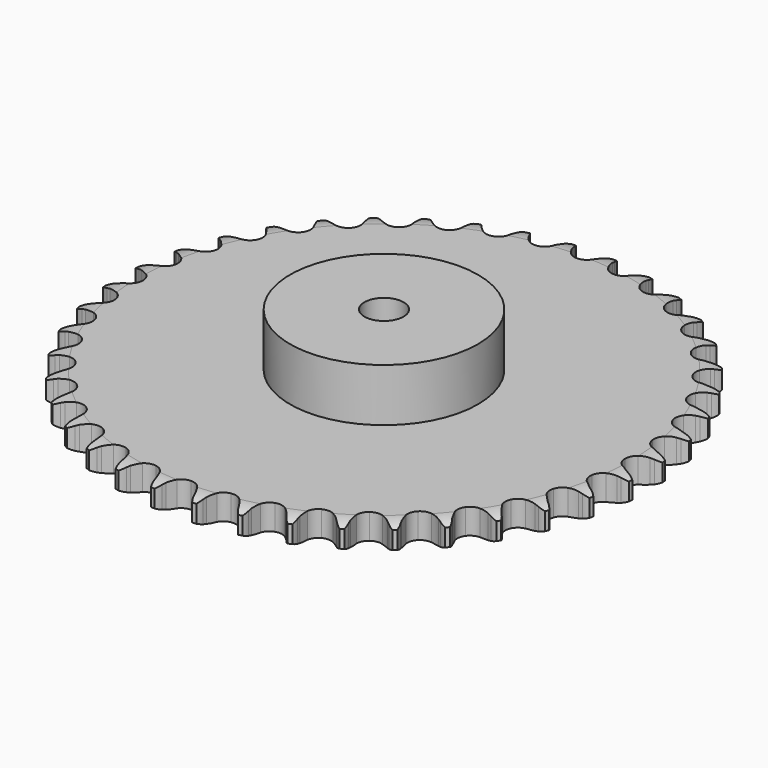
from build123d import *

# Parameters (mm, degrees)
PAD_DEPTH         = 16.2
SKETCH001_R       = 60
PAD001_DEPTH      = 50
SKETCH002_R       = 12.5
POCKET_DEPTH      = 0.001
POCKET_DEPTH_BACK = 50.001


with BuildPart() as part:
    # Sprocket → Pad (new body)
    with BuildSketch(Plane.XY):
        with BuildLine():
            ThreePointArc((-13.341244, 169.516578), (-11.398709, 167.207398), (-10.046444, 164.509783))
            Line((-10.046444, 164.509783), (-9.272265, 162.371136))
            ThreePointArc((-9.272265, 162.371136), (-8.049996, 159.632311), (-6.445164, 157.098614))
            ThreePointArc((-6.445164, 157.098614), (-3.608799, 154.708058), (0, 153.849985))
            ThreePointArc((0, 153.849985), (3.608799, 154.708058), (6.445164, 157.098614))
            ThreePointArc((6.445164, 157.098614), (8.049996, 159.632311), (9.272265, 162.371136))
            Line((9.272265, 162.371136), (10.046444, 164.509783))
            ThreePointArc((10.046444, 164.509783), (11.398709, 167.207398), (13.341244, 169.516578))
            ThreePointArc((13.341244, 169.516578), (14.898627, 166.931949), (15.812244, 164.056004))
            Line((15.812244, 164.056004), (16.242334, 161.82258))
            ThreePointArc((16.242334, 161.82258), (17.021108, 158.926269), (18.209825, 156.172715))
            ThreePointArc((18.209825, 156.172715), (20.637303, 153.367886), (24.06744, 151.955836))
            ThreePointArc((24.06744, 151.955836), (27.766041, 152.238804), (30.941451, 154.156224))
            Line((30.941451, 154.156224), (34.55855, 158.921576))
            ThreePointArc((34.55855, 158.921576), (35.080812, 159.932273), (35.657756, 160.912784))
            ThreePointArc((35.657756, 160.912784), (37.415372, 163.365647), (39.695226, 165.342517))
            ThreePointArc((39.695226, 165.342517), (40.829111, 162.546081), (41.281582, 159.562623))
            Line((41.281582, 159.562623), (41.356992, 157.289415))
            ThreePointArc((41.356992, 157.289415), (41.673095, 154.306935), (42.416427, 151.401326))
            ThreePointArc((42.416427, 151.401326), (44.375247, 148.251287), (47.54226, 146.32003))
            ThreePointArc((47.54226, 146.32003), (51.239591, 146.020926), (54.675856, 147.417996))
            Line((54.675856, 147.417996), (58.993888, 151.55884))
            ThreePointArc((58.993888, 151.55884), (59.667829, 152.475393), (60.391055, 153.353579))
            ThreePointArc((60.391055, 153.353579), (62.510745, 155.501291), (65.07178, 157.097175))
            ThreePointArc((65.07178, 157.097175), (65.754246, 154.157789), (65.734431, 151.14028))
            Line((65.734431, 151.14028), (65.453305, 148.883262))
            ThreePointArc((65.453305, 148.883262), (65.298953, 145.888052), (65.578596, 142.901933))
            ThreePointArc((65.578596, 142.901933), (67.020525, 139.48425), (69.846431, 137.08134))
            ThreePointArc((69.846431, 137.08134), (73.451452, 136.207528), (77.063961, 137.049847))
            Line((77.063961, 137.049847), (81.976602, 140.464222))
            ThreePointArc((81.976602, 140.464222), (82.785625, 141.264063), (83.637326, 142.018299))
            ThreePointArc((83.637326, 142.018299), (86.066895, 143.807977), (88.846051, 144.983579))
            ThreePointArc((88.846051, 144.983579), (89.060293, 141.97362), (88.56868, 138.996362))
            Line((88.56868, 138.996362), (87.937939, 136.811109))
            ThreePointArc((87.937939, 136.811109), (87.316934, 133.876921), (87.126002, 130.883821))
            ThreePointArc((87.126002, 130.883821), (88.015535, 127.282647), (90.430752, 124.467252))
            ThreePointArc((90.430752, 124.467252), (93.854695, 123.040249), (97.554496, 123.307077))
            Line((97.554496, 123.307077), (102.940779, 125.910908))
            ThreePointArc((102.940779, 125.910908), (103.864965, 126.574343), (104.824168, 127.186058))
            ThreePointArc((104.824168, 127.186058), (107.503792, 128.573633), (110.432638, 129.300006))
            ThreePointArc((110.432638, 129.300006), (110.17338, 126.29359), (109.222074, 123.429892))
            Line((109.222074, 123.429892), (108.25725, 121.370213))
            ThreePointArc((108.25725, 121.370213), (107.184882, 118.569296), (106.528077, 115.642914))
            ThreePointArc((106.528077, 115.642914), (106.84331, 111.946923), (108.788367, 108.788367))
            ThreePointArc((108.788367, 108.788367), (111.946923, 106.84331), (115.642914, 106.528077))
            Line((115.642914, 106.528077), (121.370213, 108.25725))
            ThreePointArc((121.370213, 108.25725), (122.386805, 108.767943), (123.429892, 109.222074))
            ThreePointArc((123.429892, 109.222074), (126.29359, 110.17338), (129.300006, 110.432638))
            ThreePointArc((129.300006, 110.432638), (128.573633, 107.503792), (127.186058, 104.824168))
            Line((127.186058, 104.824168), (125.910908, 102.940779))
            ThreePointArc((125.910908, 102.940779), (124.413583, 100.342102), (123.307077, 97.554496))
            ThreePointArc((123.307077, 97.554496), (123.040249, 93.854695), (124.467252, 90.430752))
            ThreePointArc((124.467252, 90.430752), (127.282647, 88.015535), (130.883821, 87.126002))
            Line((130.883821, 87.126002), (136.811109, 87.937939))
            ThreePointArc((136.811109, 87.937939), (137.895075, 88.283314), (138.996362, 88.56868))
            ThreePointArc((138.996362, 88.56868), (141.97362, 89.060293), (144.983579, 88.846051))
            ThreePointArc((144.983579, 88.846051), (143.807977, 86.066895), (142.018299, 83.637326))
            Line((142.018299, 83.637326), (140.464222, 81.976602))
            ThreePointArc((140.464222, 81.976602), (138.578809, 79.644152), (137.049847, 77.063961))
            ThreePointArc((137.049847, 77.063961), (136.207528, 73.451452), (137.08134, 69.846431))
            ThreePointArc((137.08134, 69.846431), (139.48425, 67.020525), (142.901933, 65.578596))
            Line((142.901933, 65.578596), (148.883262, 65.453305))
            ThreePointArc((148.883262, 65.453305), (150.007911, 65.624858), (151.14028, 65.734431))
            ThreePointArc((151.14028, 65.734431), (154.157789, 65.754246), (157.097175, 65.07178))
            ThreePointArc((157.097175, 65.07178), (155.501291, 62.510745), (153.353579, 60.391055))
            Line((153.353579, 60.391055), (151.55884, 58.993888))
            ThreePointArc((151.55884, 58.993888), (149.331764, 56.985098), (147.417996, 54.675856))
            ThreePointArc((147.417996, 54.675856), (146.020926, 51.239591), (146.32003, 47.54226))
            ThreePointArc((146.32003, 47.54226), (148.251287, 44.375247), (151.401326, 42.416427))
            Line((151.401326, 42.416427), (157.289415, 41.356992))
            ThreePointArc((157.289415, 41.356992), (158.427054, 41.3505), (159.562623, 41.281582))
            ThreePointArc((159.562623, 41.281582), (162.546081, 40.829111), (165.342517, 39.695226))
            ThreePointArc((165.342517, 39.695226), (163.365647, 37.415372), (160.912784, 35.657756))
            Line((160.912784, 35.657756), (158.921576, 34.55855))
            ThreePointArc((158.921576, 34.55855), (156.407675, 32.922883), (154.156224, 30.941451))
            ThreePointArc((154.156224, 30.941451), (152.238804, 27.766041), (151.955836, 24.06744))
            ThreePointArc((151.955836, 24.06744), (153.367886, 20.637303), (156.172715, 18.209825))
            Line((156.172715, 18.209825), (161.82258, 16.242334))
            ThreePointArc((161.82258, 16.242334), (162.945197, 16.057955), (164.056004, 15.812244))
            ThreePointArc((164.056004, 15.812244), (166.931949, 14.898627), (169.516578, 13.341244))
            ThreePointArc((169.516578, 13.341244), (167.207398, 11.398709), (164.509783, 10.046444))
            Line((164.509783, 10.046444), (162.371136, 9.272265))
            ThreePointArc((162.371136, 9.272265), (159.632311, 8.049996), (157.098614, 6.445164))
            ThreePointArc((157.098614, 6.445164), (154.708058, 3.608799), (153.849985, 0))
            ThreePointArc((153.849985, 0), (154.708058, -3.608799), (157.098614, -6.445164))
            Line((157.098614, -6.445164), (162.371136, -9.272265))
            ThreePointArc((162.371136, -9.272265), (163.451089, -9.62999), (164.509783, -10.046444))
            ThreePointArc((164.509783, -10.046444), (167.207398, -11.398709), (169.516578, -13.341244))
            ThreePointArc((169.516578, -13.341244), (166.931949, -14.898627), (164.056004, -15.812244))
            Line((164.056004, -15.812244), (161.82258, -16.242334))
            ThreePointArc((161.82258, -16.242334), (158.926269, -17.021108), (156.172715, -18.209825))
            ThreePointArc((156.172715, -18.209825), (153.367886, -20.637303), (151.955836, -24.06744))
            ThreePointArc((151.955836, -24.06744), (152.238804, -27.766041), (154.156224, -30.941451))
            Line((154.156224, -30.941451), (158.921576, -34.55855))
            ThreePointArc((158.921576, -34.55855), (159.932273, -35.080812), (160.912784, -35.657756))
            ThreePointArc((160.912784, -35.657756), (163.365647, -37.415372), (165.342517, -39.695226))
            ThreePointArc((165.342517, -39.695226), (162.546081, -40.829111), (159.562623, -41.281582))
            Line((159.562623, -41.281582), (157.289415, -41.356992))
            ThreePointArc((157.289415, -41.356992), (154.306935, -41.673095), (151.401326, -42.416427))
            ThreePointArc((151.401326, -42.416427), (148.251287, -44.375247), (146.32003, -47.54226))
            ThreePointArc((146.32003, -47.54226), (146.020926, -51.239591), (147.417996, -54.675856))
            Line((147.417996, -54.675856), (151.55884, -58.993888))
            ThreePointArc((151.55884, -58.993888), (152.475393, -59.667829), (153.353579, -60.391055))
            ThreePointArc((153.353579, -60.391055), (155.501291, -62.510745), (157.097175, -65.07178))
            ThreePointArc((157.097175, -65.07178), (154.157789, -65.754246), (151.14028, -65.734431))
            Line((151.14028, -65.734431), (148.883262, -65.453305))
            ThreePointArc((148.883262, -65.453305), (145.888052, -65.298953), (142.901933, -65.578596))
            ThreePointArc((142.901933, -65.578596), (139.48425, -67.020525), (137.08134, -69.846431))
            ThreePointArc((137.08134, -69.846431), (136.207528, -73.451452), (137.049847, -77.063961))
            Line((137.049847, -77.063961), (140.464222, -81.976602))
            ThreePointArc((140.464222, -81.976602), (141.264063, -82.785625), (142.018299, -83.637326))
            ThreePointArc((142.018299, -83.637326), (143.807977, -86.066895), (144.983579, -88.846051))
            ThreePointArc((144.983579, -88.846051), (141.97362, -89.060293), (138.996362, -88.56868))
            Line((138.996362, -88.56868), (136.811109, -87.937939))
            ThreePointArc((136.811109, -87.937939), (133.876921, -87.316934), (130.883821, -87.126002))
            ThreePointArc((130.883821, -87.126002), (127.282647, -88.015535), (124.467252, -90.430752))
            ThreePointArc((124.467252, -90.430752), (123.040249, -93.854695), (123.307077, -97.554496))
            Line((123.307077, -97.554496), (125.910908, -102.940779))
            ThreePointArc((125.910908, -102.940779), (126.574343, -103.864965), (127.186058, -104.824168))
            ThreePointArc((127.186058, -104.824168), (128.573633, -107.503792), (129.300006, -110.432638))
            ThreePointArc((129.300006, -110.432638), (126.29359, -110.17338), (123.429892, -109.222074))
            Line((123.429892, -109.222074), (121.370213, -108.25725))
            ThreePointArc((121.370213, -108.25725), (118.569296, -107.184882), (115.642914, -106.528077))
            ThreePointArc((115.642914, -106.528077), (111.946923, -106.84331), (108.788367, -108.788367))
            ThreePointArc((108.788367, -108.788367), (106.84331, -111.946923), (106.528077, -115.642914))
            Line((106.528077, -115.642914), (108.25725, -121.370213))
            ThreePointArc((108.25725, -121.370213), (108.767943, -122.386805), (109.222074, -123.429892))
            ThreePointArc((109.222074, -123.429892), (110.17338, -126.29359), (110.432638, -129.300006))
            ThreePointArc((110.432638, -129.300006), (107.503792, -128.573633), (104.824168, -127.186058))
            Line((104.824168, -127.186058), (102.940779, -125.910908))
            ThreePointArc((102.940779, -125.910908), (100.342102, -124.413583), (97.554496, -123.307077))
            ThreePointArc((97.554496, -123.307077), (93.854695, -123.040249), (90.430752, -124.467252))
            ThreePointArc((90.430752, -124.467252), (88.015535, -127.282647), (87.126002, -130.883821))
            Line((87.126002, -130.883821), (87.937939, -136.811109))
            ThreePointArc((87.937939, -136.811109), (88.283314, -137.895075), (88.56868, -138.996362))
            ThreePointArc((88.56868, -138.996362), (89.060293, -141.97362), (88.846051, -144.983579))
            ThreePointArc((88.846051, -144.983579), (86.066895, -143.807977), (83.637326, -142.018299))
            Line((83.637326, -142.018299), (81.976602, -140.464222))
            ThreePointArc((81.976602, -140.464222), (79.644152, -138.578809), (77.063961, -137.049847))
            ThreePointArc((77.063961, -137.049847), (73.451452, -136.207528), (69.846431, -137.08134))
            ThreePointArc((69.846431, -137.08134), (67.020525, -139.48425), (65.578596, -142.901933))
            Line((65.578596, -142.901933), (65.453305, -148.883262))
            ThreePointArc((65.453305, -148.883262), (65.624858, -150.007911), (65.734431, -151.14028))
            ThreePointArc((65.734431, -151.14028), (65.754246, -154.157789), (65.07178, -157.097175))
            ThreePointArc((65.07178, -157.097175), (62.510745, -155.501291), (60.391055, -153.353579))
            Line((60.391055, -153.353579), (58.993888, -151.55884))
            ThreePointArc((58.993888, -151.55884), (56.985098, -149.331764), (54.675856, -147.417996))
            ThreePointArc((54.675856, -147.417996), (51.239591, -146.020926), (47.54226, -146.32003))
            ThreePointArc((47.54226, -146.32003), (44.375247, -148.251287), (42.416427, -151.401326))
            Line((42.416427, -151.401326), (41.356992, -157.289415))
            ThreePointArc((41.356992, -157.289415), (41.3505, -158.427054), (41.281582, -159.562623))
            ThreePointArc((41.281582, -159.562623), (40.829111, -162.546081), (39.695226, -165.342517))
            ThreePointArc((39.695226, -165.342517), (37.415372, -163.365647), (35.657756, -160.912784))
            Line((35.657756, -160.912784), (34.55855, -158.921576))
            ThreePointArc((34.55855, -158.921576), (32.922883, -156.407675), (30.941451, -154.156224))
            ThreePointArc((30.941451, -154.156224), (27.766041, -152.238804), (24.06744, -151.955836))
            ThreePointArc((24.06744, -151.955836), (20.637303, -153.367886), (18.209825, -156.172715))
            Line((18.209825, -156.172715), (16.242334, -161.82258))
            ThreePointArc((16.242334, -161.82258), (16.057955, -162.945197), (15.812244, -164.056004))
            ThreePointArc((15.812244, -164.056004), (14.898627, -166.931949), (13.341244, -169.516578))
            ThreePointArc((13.341244, -169.516578), (11.398709, -167.207398), (10.046444, -164.509783))
            Line((10.046444, -164.509783), (9.272265, -162.371136))
            ThreePointArc((9.272265, -162.371136), (8.049996, -159.632311), (6.445164, -157.098614))
            ThreePointArc((6.445164, -157.098614), (3.608799, -154.708058), (0, -153.849985))
            ThreePointArc((0, -153.849985), (-3.608799, -154.708058), (-6.445164, -157.098614))
            Line((-6.445164, -157.098614), (-9.272265, -162.371136))
            ThreePointArc((-9.272265, -162.371136), (-9.62999, -163.451089), (-10.046444, -164.509783))
            ThreePointArc((-10.046444, -164.509783), (-11.398709, -167.207398), (-13.341244, -169.516578))
            ThreePointArc((-13.341244, -169.516578), (-14.898627, -166.931949), (-15.812244, -164.056004))
            Line((-15.812244, -164.056004), (-16.242334, -161.82258))
            ThreePointArc((-16.242334, -161.82258), (-17.021108, -158.926269), (-18.209825, -156.172715))
            ThreePointArc((-18.209825, -156.172715), (-20.637303, -153.367886), (-24.06744, -151.955836))
            ThreePointArc((-24.06744, -151.955836), (-27.766041, -152.238804), (-30.941451, -154.156224))
            Line((-30.941451, -154.156224), (-34.55855, -158.921576))
            ThreePointArc((-34.55855, -158.921576), (-35.080812, -159.932273), (-35.657756, -160.912784))
            ThreePointArc((-35.657756, -160.912784), (-37.415372, -163.365647), (-39.695226, -165.342517))
            ThreePointArc((-39.695226, -165.342517), (-40.829111, -162.546081), (-41.281582, -159.562623))
            Line((-41.281582, -159.562623), (-41.356992, -157.289415))
            ThreePointArc((-41.356992, -157.289415), (-41.673095, -154.306935), (-42.416427, -151.401326))
            ThreePointArc((-42.416427, -151.401326), (-44.375247, -148.251287), (-47.54226, -146.32003))
            ThreePointArc((-47.54226, -146.32003), (-51.239591, -146.020926), (-54.675856, -147.417996))
            Line((-54.675856, -147.417996), (-58.993888, -151.55884))
            ThreePointArc((-58.993888, -151.55884), (-59.667829, -152.475393), (-60.391055, -153.353579))
            ThreePointArc((-60.391055, -153.353579), (-62.510745, -155.501291), (-65.07178, -157.097175))
            ThreePointArc((-65.07178, -157.097175), (-65.754246, -154.157789), (-65.734431, -151.14028))
            Line((-65.734431, -151.14028), (-65.453305, -148.883262))
            ThreePointArc((-65.453305, -148.883262), (-65.298953, -145.888052), (-65.578596, -142.901933))
            ThreePointArc((-65.578596, -142.901933), (-67.020525, -139.48425), (-69.846431, -137.08134))
            ThreePointArc((-69.846431, -137.08134), (-73.451452, -136.207528), (-77.063961, -137.049847))
            Line((-77.063961, -137.049847), (-81.976602, -140.464222))
            ThreePointArc((-81.976602, -140.464222), (-82.785625, -141.264063), (-83.637326, -142.018299))
            ThreePointArc((-83.637326, -142.018299), (-86.066895, -143.807977), (-88.846051, -144.983579))
            ThreePointArc((-88.846051, -144.983579), (-89.060293, -141.97362), (-88.56868, -138.996362))
            Line((-88.56868, -138.996362), (-87.937939, -136.811109))
            ThreePointArc((-87.937939, -136.811109), (-87.316934, -133.876921), (-87.126002, -130.883821))
            ThreePointArc((-87.126002, -130.883821), (-88.015535, -127.282647), (-90.430752, -124.467252))
            ThreePointArc((-90.430752, -124.467252), (-93.854695, -123.040249), (-97.554496, -123.307077))
            Line((-97.554496, -123.307077), (-102.940779, -125.910908))
            ThreePointArc((-102.940779, -125.910908), (-103.864965, -126.574343), (-104.824168, -127.186058))
            ThreePointArc((-104.824168, -127.186058), (-107.503792, -128.573633), (-110.432638, -129.300006))
            ThreePointArc((-110.432638, -129.300006), (-110.17338, -126.29359), (-109.222074, -123.429892))
            Line((-109.222074, -123.429892), (-108.25725, -121.370213))
            ThreePointArc((-108.25725, -121.370213), (-107.184882, -118.569296), (-106.528077, -115.642914))
            ThreePointArc((-106.528077, -115.642914), (-106.84331, -111.946923), (-108.788367, -108.788367))
            ThreePointArc((-108.788367, -108.788367), (-111.946923, -106.84331), (-115.642914, -106.528077))
            Line((-115.642914, -106.528077), (-121.370213, -108.25725))
            ThreePointArc((-121.370213, -108.25725), (-122.386805, -108.767943), (-123.429892, -109.222074))
            ThreePointArc((-123.429892, -109.222074), (-126.29359, -110.17338), (-129.300006, -110.432638))
            ThreePointArc((-129.300006, -110.432638), (-128.573633, -107.503792), (-127.186058, -104.824168))
            Line((-127.186058, -104.824168), (-125.910908, -102.940779))
            ThreePointArc((-125.910908, -102.940779), (-124.413583, -100.342102), (-123.307077, -97.554496))
            ThreePointArc((-123.307077, -97.554496), (-123.040249, -93.854695), (-124.467252, -90.430752))
            ThreePointArc((-124.467252, -90.430752), (-127.282647, -88.015535), (-130.883821, -87.126002))
            Line((-130.883821, -87.126002), (-136.811109, -87.937939))
            ThreePointArc((-136.811109, -87.937939), (-137.895075, -88.283314), (-138.996362, -88.56868))
            ThreePointArc((-138.996362, -88.56868), (-141.97362, -89.060293), (-144.983579, -88.846051))
            ThreePointArc((-144.983579, -88.846051), (-143.807977, -86.066895), (-142.018299, -83.637326))
            Line((-142.018299, -83.637326), (-140.464222, -81.976602))
            ThreePointArc((-140.464222, -81.976602), (-138.578809, -79.644152), (-137.049847, -77.063961))
            ThreePointArc((-137.049847, -77.063961), (-136.207528, -73.451452), (-137.08134, -69.846431))
            ThreePointArc((-137.08134, -69.846431), (-139.48425, -67.020525), (-142.901933, -65.578596))
            Line((-142.901933, -65.578596), (-148.883262, -65.453305))
            ThreePointArc((-148.883262, -65.453305), (-150.007911, -65.624858), (-151.14028, -65.734431))
            ThreePointArc((-151.14028, -65.734431), (-154.157789, -65.754246), (-157.097175, -65.07178))
            ThreePointArc((-157.097175, -65.07178), (-155.501291, -62.510745), (-153.353579, -60.391055))
            Line((-153.353579, -60.391055), (-151.55884, -58.993888))
            ThreePointArc((-151.55884, -58.993888), (-149.331764, -56.985098), (-147.417996, -54.675856))
            ThreePointArc((-147.417996, -54.675856), (-146.020926, -51.239591), (-146.32003, -47.54226))
            ThreePointArc((-146.32003, -47.54226), (-148.251287, -44.375247), (-151.401326, -42.416427))
            Line((-151.401326, -42.416427), (-157.289415, -41.356992))
            ThreePointArc((-157.289415, -41.356992), (-158.427054, -41.3505), (-159.562623, -41.281582))
            ThreePointArc((-159.562623, -41.281582), (-162.546081, -40.829111), (-165.342517, -39.695226))
            ThreePointArc((-165.342517, -39.695226), (-163.365647, -37.415372), (-160.912784, -35.657756))
            Line((-160.912784, -35.657756), (-158.921576, -34.55855))
            ThreePointArc((-158.921576, -34.55855), (-156.407675, -32.922883), (-154.156224, -30.941451))
            ThreePointArc((-154.156224, -30.941451), (-152.238804, -27.766041), (-151.955836, -24.06744))
            ThreePointArc((-151.955836, -24.06744), (-153.367886, -20.637303), (-156.172715, -18.209825))
            Line((-156.172715, -18.209825), (-161.82258, -16.242334))
            ThreePointArc((-161.82258, -16.242334), (-162.945197, -16.057955), (-164.056004, -15.812244))
            ThreePointArc((-164.056004, -15.812244), (-166.931949, -14.898627), (-169.516578, -13.341244))
            ThreePointArc((-169.516578, -13.341244), (-167.207398, -11.398709), (-164.509783, -10.046444))
            Line((-164.509783, -10.046444), (-162.371136, -9.272265))
            ThreePointArc((-162.371136, -9.272265), (-159.632311, -8.049996), (-157.098614, -6.445164))
            ThreePointArc((-157.098614, -6.445164), (-154.708058, -3.608799), (-153.849985, 0))
            ThreePointArc((-153.849985, 0), (-154.708058, 3.608799), (-157.098614, 6.445164))
            Line((-157.098614, 6.445164), (-162.371136, 9.272265))
            ThreePointArc((-162.371136, 9.272265), (-163.451089, 9.62999), (-164.509783, 10.046444))
            ThreePointArc((-164.509783, 10.046444), (-167.207398, 11.398709), (-169.516578, 13.341244))
            ThreePointArc((-169.516578, 13.341244), (-166.931949, 14.898627), (-164.056004, 15.812244))
            Line((-164.056004, 15.812244), (-161.82258, 16.242334))
            ThreePointArc((-161.82258, 16.242334), (-158.926269, 17.021108), (-156.172715, 18.209825))
            ThreePointArc((-156.172715, 18.209825), (-153.367886, 20.637303), (-151.955836, 24.06744))
            ThreePointArc((-151.955836, 24.06744), (-152.238804, 27.766041), (-154.156224, 30.941451))
            Line((-154.156224, 30.941451), (-158.921576, 34.55855))
            ThreePointArc((-158.921576, 34.55855), (-159.932273, 35.080812), (-160.912784, 35.657756))
            ThreePointArc((-160.912784, 35.657756), (-163.365647, 37.415372), (-165.342517, 39.695226))
            ThreePointArc((-165.342517, 39.695226), (-162.546081, 40.829111), (-159.562623, 41.281582))
            Line((-159.562623, 41.281582), (-157.289415, 41.356992))
            ThreePointArc((-157.289415, 41.356992), (-154.306935, 41.673095), (-151.401326, 42.416427))
            ThreePointArc((-151.401326, 42.416427), (-148.251287, 44.375247), (-146.32003, 47.54226))
            ThreePointArc((-146.32003, 47.54226), (-146.020926, 51.239591), (-147.417996, 54.675856))
            Line((-147.417996, 54.675856), (-151.55884, 58.993888))
            ThreePointArc((-151.55884, 58.993888), (-152.475393, 59.667829), (-153.353579, 60.391055))
            ThreePointArc((-153.353579, 60.391055), (-155.501291, 62.510745), (-157.097175, 65.07178))
            ThreePointArc((-157.097175, 65.07178), (-154.157789, 65.754246), (-151.14028, 65.734431))
            Line((-151.14028, 65.734431), (-148.883262, 65.453305))
            ThreePointArc((-148.883262, 65.453305), (-145.888052, 65.298953), (-142.901933, 65.578596))
            ThreePointArc((-142.901933, 65.578596), (-139.48425, 67.020525), (-137.08134, 69.846431))
            ThreePointArc((-137.08134, 69.846431), (-136.207528, 73.451452), (-137.049847, 77.063961))
            Line((-137.049847, 77.063961), (-140.464222, 81.976602))
            ThreePointArc((-140.464222, 81.976602), (-141.264063, 82.785625), (-142.018299, 83.637326))
            ThreePointArc((-142.018299, 83.637326), (-143.807977, 86.066895), (-144.983579, 88.846051))
            ThreePointArc((-144.983579, 88.846051), (-141.97362, 89.060293), (-138.996362, 88.56868))
            Line((-138.996362, 88.56868), (-136.811109, 87.937939))
            ThreePointArc((-136.811109, 87.937939), (-133.876921, 87.316934), (-130.883821, 87.126002))
            ThreePointArc((-130.883821, 87.126002), (-127.282647, 88.015535), (-124.467252, 90.430752))
            ThreePointArc((-124.467252, 90.430752), (-123.040249, 93.854695), (-123.307077, 97.554496))
            Line((-123.307077, 97.554496), (-125.910908, 102.940779))
            ThreePointArc((-125.910908, 102.940779), (-126.574343, 103.864965), (-127.186058, 104.824168))
            ThreePointArc((-127.186058, 104.824168), (-128.573633, 107.503792), (-129.300006, 110.432638))
            ThreePointArc((-129.300006, 110.432638), (-126.29359, 110.17338), (-123.429892, 109.222074))
            Line((-123.429892, 109.222074), (-121.370213, 108.25725))
            ThreePointArc((-121.370213, 108.25725), (-118.569296, 107.184882), (-115.642914, 106.528077))
            ThreePointArc((-115.642914, 106.528077), (-111.946923, 106.84331), (-108.788367, 108.788367))
            ThreePointArc((-108.788367, 108.788367), (-106.84331, 111.946923), (-106.528077, 115.642914))
            Line((-106.528077, 115.642914), (-108.25725, 121.370213))
            ThreePointArc((-108.25725, 121.370213), (-108.767943, 122.386805), (-109.222074, 123.429892))
            ThreePointArc((-109.222074, 123.429892), (-110.17338, 126.29359), (-110.432638, 129.300006))
            ThreePointArc((-110.432638, 129.300006), (-107.503792, 128.573633), (-104.824168, 127.186058))
            Line((-104.824168, 127.186058), (-102.940779, 125.910908))
            ThreePointArc((-102.940779, 125.910908), (-100.342102, 124.413583), (-97.554496, 123.307077))
            ThreePointArc((-97.554496, 123.307077), (-93.854695, 123.040249), (-90.430752, 124.467252))
            ThreePointArc((-90.430752, 124.467252), (-88.015535, 127.282647), (-87.126002, 130.883821))
            Line((-87.126002, 130.883821), (-87.937939, 136.811109))
            ThreePointArc((-87.937939, 136.811109), (-88.283314, 137.895075), (-88.56868, 138.996362))
            ThreePointArc((-88.56868, 138.996362), (-89.060293, 141.97362), (-88.846051, 144.983579))
            ThreePointArc((-88.846051, 144.983579), (-86.066895, 143.807977), (-83.637326, 142.018299))
            Line((-83.637326, 142.018299), (-81.976602, 140.464222))
            ThreePointArc((-81.976602, 140.464222), (-79.644152, 138.578809), (-77.063961, 137.049847))
            ThreePointArc((-77.063961, 137.049847), (-73.451452, 136.207528), (-69.846431, 137.08134))
            ThreePointArc((-69.846431, 137.08134), (-67.020525, 139.48425), (-65.578596, 142.901933))
            Line((-65.578596, 142.901933), (-65.453305, 148.883262))
            ThreePointArc((-65.453305, 148.883262), (-65.624858, 150.007911), (-65.734431, 151.14028))
            ThreePointArc((-65.734431, 151.14028), (-65.754246, 154.157789), (-65.07178, 157.097175))
            ThreePointArc((-65.07178, 157.097175), (-62.510745, 155.501291), (-60.391055, 153.353579))
            Line((-60.391055, 153.353579), (-58.993888, 151.55884))
            ThreePointArc((-58.993888, 151.55884), (-56.985098, 149.331764), (-54.675856, 147.417996))
            ThreePointArc((-54.675856, 147.417996), (-51.239591, 146.020926), (-47.54226, 146.32003))
            ThreePointArc((-47.54226, 146.32003), (-44.375247, 148.251287), (-42.416427, 151.401326))
            Line((-42.416427, 151.401326), (-41.356992, 157.289415))
            ThreePointArc((-41.356992, 157.289415), (-41.3505, 158.427054), (-41.281582, 159.562623))
            ThreePointArc((-41.281582, 159.562623), (-40.829111, 162.546081), (-39.695226, 165.342517))
            ThreePointArc((-39.695226, 165.342517), (-37.415372, 163.365647), (-35.657756, 160.912784))
            Line((-35.657756, 160.912784), (-34.55855, 158.921576))
            ThreePointArc((-34.55855, 158.921576), (-32.922883, 156.407675), (-30.941451, 154.156224))
            ThreePointArc((-30.941451, 154.156224), (-27.766041, 152.238804), (-24.06744, 151.955836))
            ThreePointArc((-24.06744, 151.955836), (-20.637303, 153.367886), (-18.209825, 156.172715))
            Line((-18.209825, 156.172715), (-16.242334, 161.82258))
            ThreePointArc((-16.242334, 161.82258), (-16.057955, 162.945197), (-15.812244, 164.056004))
            ThreePointArc((-15.812244, 164.056004), (-14.898627, 166.931949), (-13.341244, 169.516578))
        make_face()
    extrude(amount=PAD_DEPTH)

    # Sketch → Groove (revolve, cut)
    with BuildSketch(Plane.XZ):
        with BuildLine():
            Line((157.325702, 0), (168.45, 0))
            Line((179.574298, 0), (168.45, 0))
            Line((179.574298, 16.2), (179.574298, 0))
            Line((168.45, 16.2), (179.574298, 16.2))
            Line((157.325702, 16.2), (168.45, 16.2))
            ThreePointArc((168.45, 13.7), (163.026579, 15.567302), (157.325702, 16.2))
            Line((168.45, 2.5), (168.45, 13.7))
            ThreePointArc((157.325702, 0), (163.026579, 0.632698), (168.45, 2.5))
        make_face()
    revolve(axis=Axis((0, 0, 0), (0, 0, 1)), mode=Mode.SUBTRACT)

    # Sketch001 → Pad001 (join)
    with BuildSketch(Plane.XY):
        Circle(SKETCH001_R)
    extrude(amount=PAD001_DEPTH)

    # Sketch002 → Pocket (cut, two sides)
    with BuildSketch(Plane.XY) as pocket_sk:
        Circle(SKETCH002_R)
    extrude(amount=-POCKET_DEPTH, mode=Mode.SUBTRACT)
    extrude(pocket_sk.sketch, amount=POCKET_DEPTH_BACK, mode=Mode.SUBTRACT)


solid = part.part
